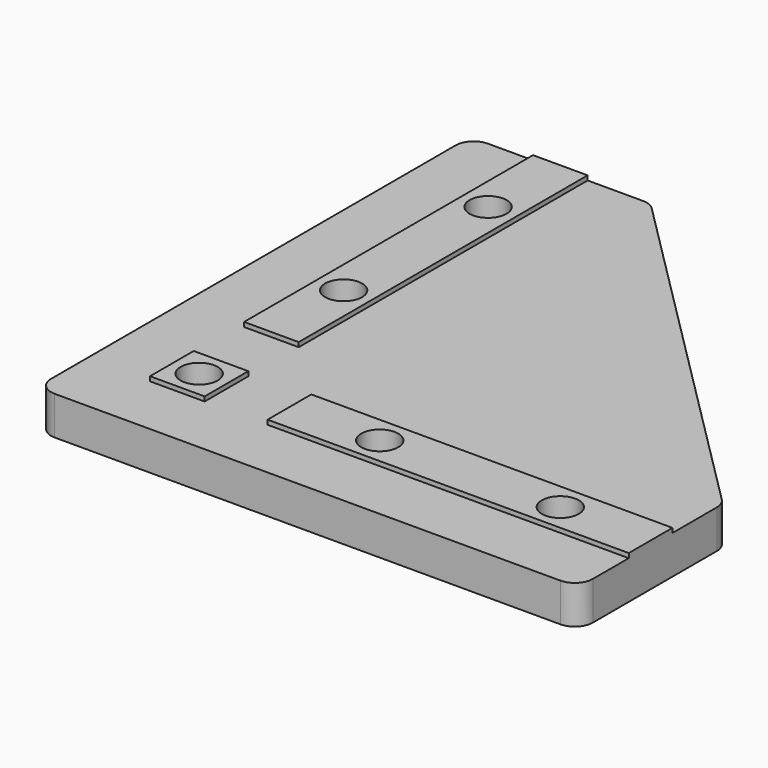
from build123d import *

# Parameters (mm, degrees)
F2_W     = 6.975
F2_H     = 40
F2_H_2   = 6.975
F2_W_2   = 6.05
F2_R     = 2.05
F2_H_3   = 6.05
F2_W_3   = 40
F3_DEPTH = 4.2625
F4_DEPTH = 4.7625
F5_R     = 2


with BuildPart() as f3:
    # F2 (on Top) → F3 (new body)
    with BuildSketch(Plane.XY):
        with Locations((-6.5125, 30)):
            Rectangle(F2_W, F2_H)
        with Locations((-6.5125, 6.5125)):
            Rectangle(F2_W, F2_H_2)
        with Locations((0, 30)):
            Rectangle(F2_W_2, F2_H)
        with Locations((0, 20)):
            Circle(F2_R, mode=Mode.SUBTRACT)
        with Locations((0, 40)):
            Circle(F2_R, mode=Mode.SUBTRACT)
        with Locations((-6.5125, 0)):
            Rectangle(F2_W, F2_H_3)
        with Locations((6.5125, 30)):
            Rectangle(F2_W, F2_H)
        with Locations((-6.5125, -6.5125)):
            Rectangle(F2_W, F2_H_2)
        Polygon((50, 10), (10, 50), (10, 10), align=None)
        with Locations((0, -6.5125)):
            Rectangle(F2_W_2, F2_H_2)
        with Locations((30, 6.5125)):
            Rectangle(F2_W_3, F2_H_2)
        with Locations((6.5125, -6.5125)):
            Rectangle(F2_W, F2_H_2)
        with Locations((30, 0)):
            Rectangle(F2_W_3, F2_H_3)
        with Locations((20, 0)):
            Circle(F2_R, mode=Mode.SUBTRACT)
        with Locations((40, 0)):
            Circle(F2_R, mode=Mode.SUBTRACT)
        with Locations((30, -6.5125)):
            Rectangle(F2_W_3, F2_H_2)
        with Locations((6.5125, 6.5125)):
            Rectangle(F2_W, F2_H_2)
        with Locations((6.5125, 0)):
            Rectangle(F2_W, F2_H_3)
        Rectangle(F2_W_2, F2_H_3)
        Circle(F2_R, mode=Mode.SUBTRACT)
        with Locations((0, 6.5125)):
            Rectangle(F2_W_2, F2_H_2)
    extrude(amount=F3_DEPTH)

    # F2 (on Top) → F4 (join)
    with BuildSketch(Plane.XY):
        Rectangle(F2_W_2, F2_H_3)
        Circle(F2_R, mode=Mode.SUBTRACT)
        with Locations((30, 0)):
            Rectangle(F2_W_3, F2_H_3)
        with Locations((20, 0)):
            Circle(F2_R, mode=Mode.SUBTRACT)
        with Locations((40, 0)):
            Circle(F2_R, mode=Mode.SUBTRACT)
        with Locations((0, 30)):
            Rectangle(F2_W_2, F2_H)
        with Locations((0, 20)):
            Circle(F2_R, mode=Mode.SUBTRACT)
        with Locations((0, 40)):
            Circle(F2_R, mode=Mode.SUBTRACT)
    extrude(amount=F4_DEPTH)

    # F5
    f5_edges = [f3.edges().sort_by_distance(p)[0] for p in [
        (50, 10, 2.13125),
        (50, -10, 2.13125),
        (-10, -10, 2.13125),
        (-10, 50, 2.13125),
        (10, 50, 2.13125),
    ]]
    fillet(f5_edges, radius=F5_R)


solid = f3.part
